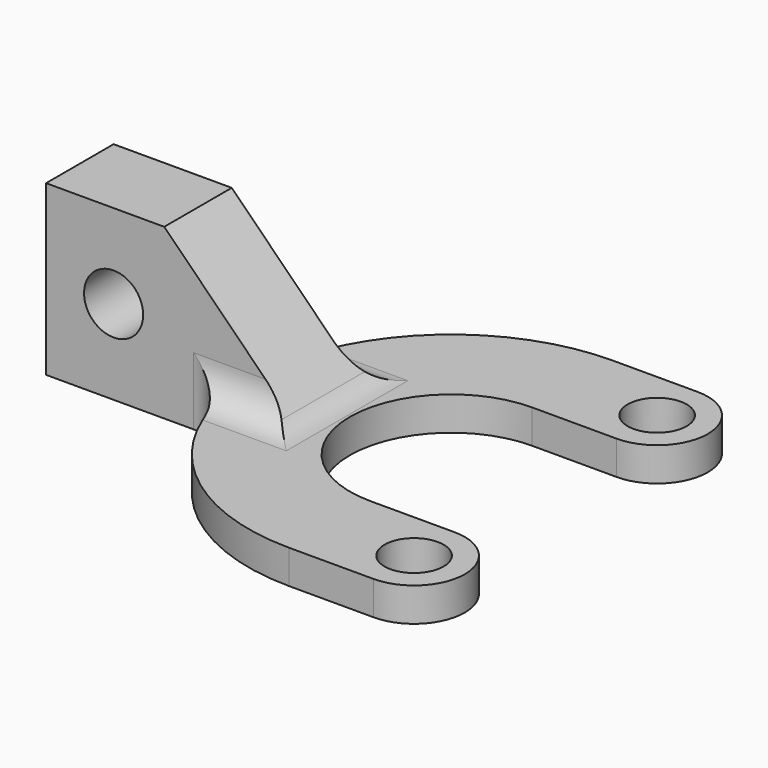
from build123d import *

# Parameters (mm, degrees)
SKETCH009_R     = 1.75
PAD004_DEPTH    = 2
SKETCH010_W     = 15
SKETCH010_H     = 5
PAD005_DEPTH    = 10
POCKET005_DEPTH = 5
SKETCH012_R     = 1.75
POCKET006_DEPTH = 5
FILLET003_R     = 2


with BuildPart() as part:
    # Sketch009 → Pad004 (new body)
    with BuildSketch(Plane.XY):
        with BuildLine():
            ThreePointArc((0, -12), (3, -9), (0, -6))
            Line((-4.999996, -6), (0, -6))
            ThreePointArc((-5.000003, 6), (-11, -3e-06), (-4.999996, -6))
            Line((-5.000003, 6), (0, 6))
            ThreePointArc((0, 6), (3, 9), (0, 12))
            Line((-5.000044, 12), (0, 12))
            ThreePointArc((-5.000044, 12), (-17, -2.2e-05), (-5, -12))
            Line((0, -12), (-5, -12))
        make_face()
        with Locations((0, -9)):
            Circle(SKETCH009_R, mode=Mode.SUBTRACT)
        with Locations((0, 9)):
            Circle(SKETCH009_R, mode=Mode.SUBTRACT)
    extrude(amount=PAD004_DEPTH)

    # Sketch010 → Pad005 (join)
    with BuildSketch(Plane.XY):
        with Locations((-19.5, 0)):
            Rectangle(SKETCH010_W, SKETCH010_H)
    extrude(amount=PAD005_DEPTH)

    # Sketch011 (on Face16 of Pad005) → Pocket005 (cut)
    with BuildSketch(Plane.XZ.offset(2.5)):
        Polygon((-12, 2), (-20, 10), (-12, 10), align=None)
    extrude(amount=-POCKET005_DEPTH, mode=Mode.SUBTRACT)

    # Sketch012 (on Face17 of Pocket005) → Pocket006 (cut)
    with BuildSketch(Plane.XZ.offset(2.5)):
        with Locations((-23, 5)):
            Circle(SKETCH012_R)
    extrude(amount=-POCKET006_DEPTH, mode=Mode.SUBTRACT)

    # Fillet003
    fillet003_edges = [part.edges().sort_by_distance(p)[0] for p in [
        (-12, 0, 2),
        (-14.368347, 2.5, 2),
        (-14.368347, -2.5, 2),
        (-16.736695, -2.5, 1),
        (-16.736695, 2.5, 1),
    ]]
    fillet(fillet003_edges, radius=FILLET003_R)


solid = part.part
